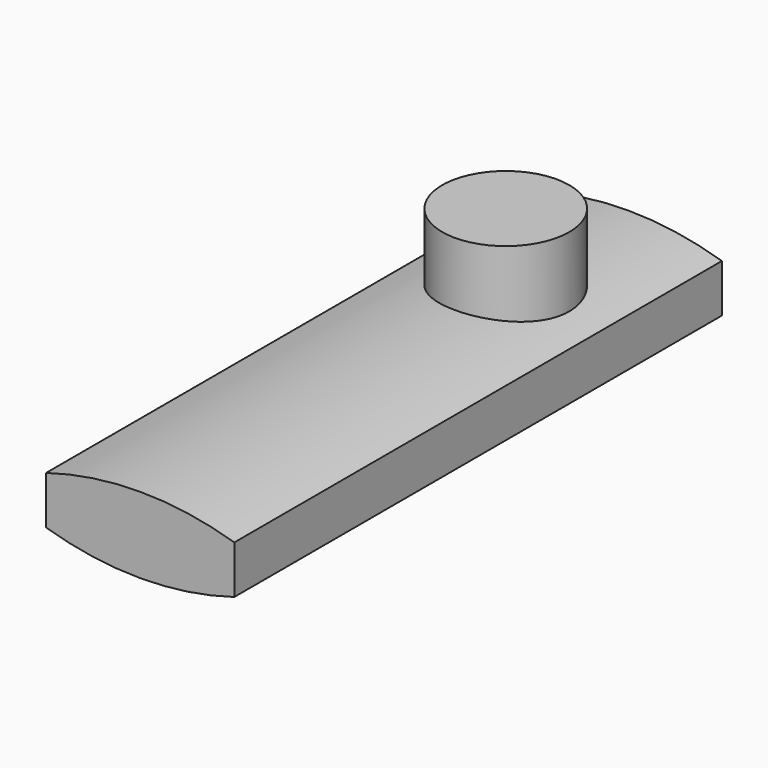
from build123d import *

# Parameters (mm, degrees)
F1_DEPTH = 76.2
F2_R     = 15.891497
F3_DEPTH = 25.4


with BuildPart() as f1:
    # F0 (on Front) → F1 (new body, symmetric)
    with BuildSketch(Plane.XZ):
        with BuildLine():
            ThreePointArc((23.529917, 6.007624), (0, 9.508228), (-23.529917, 6.007624))
            Line((-23.529917, 6.007624), (-23.529917, -6.007624))
            ThreePointArc((-23.529917, -6.007624), (0, -9.508228), (23.529917, -6.007624))
            Line((23.529917, -6.007624), (23.529917, 6.007624))
        make_face()
    extrude(amount=F1_DEPTH, both=True)

    # F2 (on Top) → F3 (join)
    with BuildSketch(Plane.XY):
        with Locations((0, 38.051773)):
            Circle(F2_R)
    extrude(amount=F3_DEPTH)


solid = f1.part
